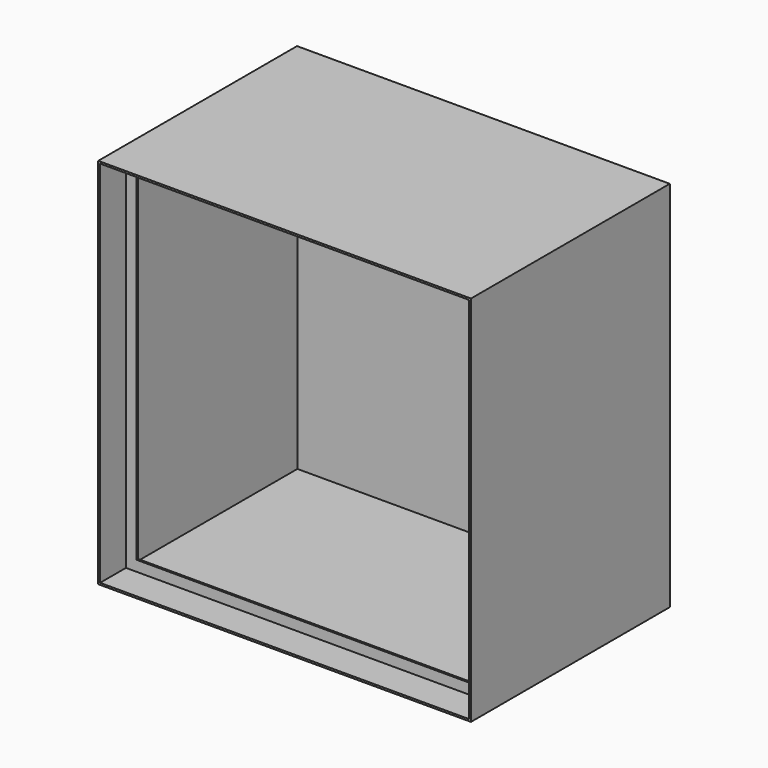
from build123d import *

# Parameters (mm, degrees)
F0_W     = 300
F0_H     = 300
F1_DEPTH = 200
F2_W     = 297
F2_H     = 297
F3_DEPTH = 198.5
F5_DEPTH = 300
F6_W     = 280
F6_H     = 280
F7_DEPTH = 25


with BuildPart() as f1:
    # F0 (on Front) → F1 (new body)
    with BuildSketch(Plane.XZ):
        Rectangle(F0_W, F0_H)
    extrude(amount=F1_DEPTH)

    # F2 (on face) → F3 (cut)
    with BuildSketch(Plane.XZ.offset(200)):
        Rectangle(F2_W, F2_H)
    extrude(amount=-F3_DEPTH, mode=Mode.SUBTRACT)

    # F4 (on face) → F5 (join)
    with BuildSketch(Plane.YZ.offset(150)):
        Polygon((-174, 150), (-174, 0), (-174, -150), (-172.5, -150), (-172.5, 150), align=None)
    extrude(amount=-F5_DEPTH)

    # F6 (on face) → F7 (cut)
    with BuildSketch(Plane.XZ.offset(174)):
        Rectangle(F6_W, F6_H)
    extrude(amount=-F7_DEPTH, mode=Mode.SUBTRACT)


solid = f1.part
